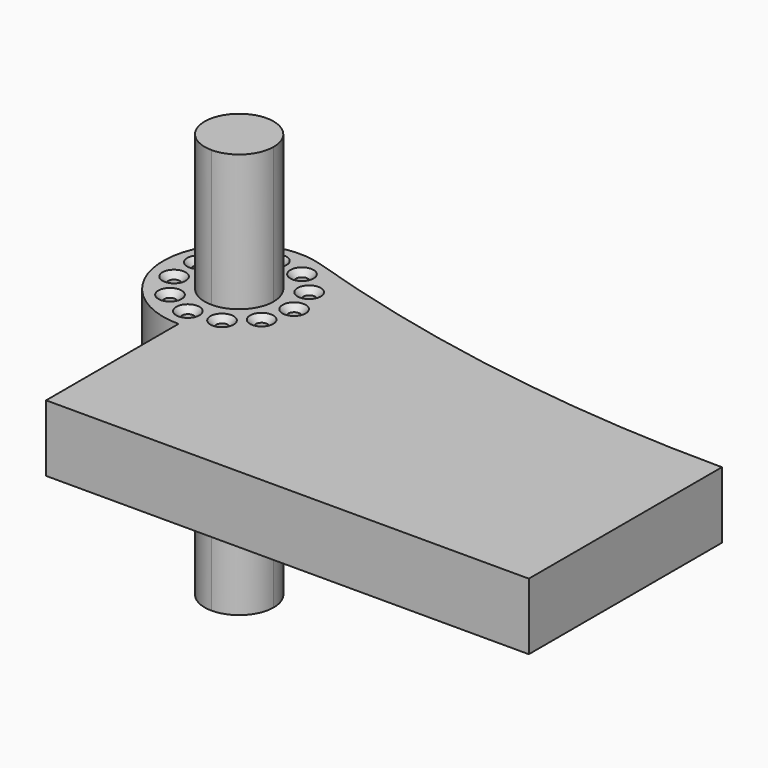
from build123d import *

# Parameters (mm, degrees)
F1_DEPTH       = 19.3
F2_DEPTH       = 58.8
F4_D           = 3.4
F4_CSINK_D     = 6.72
F4_CSINK_ANGLE = 90


with BuildPart() as f1:
    # F0 (on Top) → F1 (new body)
    with BuildSketch(Plane.XY):
        with BuildLine():
            ThreePointArc((-63.2523401713, 55.9396534555), (-91.7332967589, 38.4152323478), (-70, 13))
            Line((-70, 13), (-70, 25))
            ThreePointArc((-70, 25), (-77.0710678119, 42.0710678119), (-60, 35))
            Line((-60, 35), (-48, 35))
            ThreePointArc((-48, 35), (-52.2173045318, 47.9528275633), (-63.2523401713, 55.9396534555))
        make_face()
        with BuildLine():
            Line((-48, 35), (70, 35))
            ThreePointArc((70, 35), (2.5562173956, 40.266837972), (-63.2523401713, 55.9396534555))
            ThreePointArc((-63.2523401713, 55.9396534555), (-52.2173045318, 47.9528275633), (-48, 35))
        make_face()
        with BuildLine():
            Line((-70, 25), (-70, 13))
            ThreePointArc((-70, 13), (-54.4436508139, 19.4436508139), (-48, 35))
            Line((-48, 35), (-60, 35))
            ThreePointArc((-60, 35), (-62.9289321881, 27.9289321881), (-70, 25))
        make_face()
        with BuildLine():
            Line((-70, -35), (70, -35))
            Line((70, -35), (70, 35))
            Line((70, 35), (-48, 35))
            ThreePointArc((-48, 35), (-54.4436508139, 19.4436508139), (-70, 13))
            Line((-70, 13), (-70, -35))
        make_face()
    extrude(amount=F1_DEPTH)

    # F4 (through all)
    with Locations(Plane.XY.offset(19.3)):
        with Locations((-72.267531371, 50.7710270998), (-63.3811077933, 49.4933522781), (-56.5961357243, 43.6141405132), (-54.0667958558, 35), (-56.5961357243, 26.3858594868), (-63.3811077933, 20.5066477219), (-72.267531371, 19.2289729002), (-80.43402976, 22.9584877499), (-85.2877974236, 30.5110976578), (-85.2877974236, 39.4889023422), (-80.43402976, 47.0415122501)):
            CounterSinkHole(F4_D / 2, F4_CSINK_D / 2, counter_sink_angle=F4_CSINK_ANGLE)


with BuildPart() as f2:
    # F0 (on Top) → F2 (new body, symmetric)
    with BuildSketch(Plane.XY):
        with BuildLine():
            ThreePointArc((-60, 35), (-77.0710678119, 42.0710678119), (-70, 25))
            Line((-70, 25), (-70, 35))
            Line((-70, 35), (-60, 35))
        make_face()
        with BuildLine():
            Line((-70, 35), (-70, 25))
            ThreePointArc((-70, 25), (-62.9289321881, 27.9289321881), (-60, 35))
            Line((-60, 35), (-70, 35))
        make_face()
    extrude(amount=F2_DEPTH, both=True)


solid = Compound([f1.part, f2.part])
